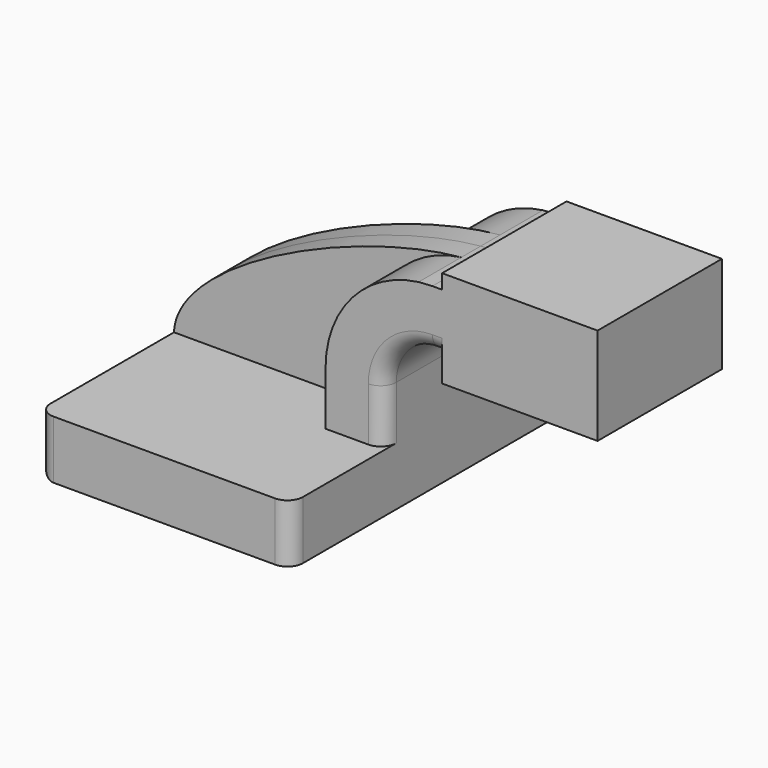
from build123d import *

# Parameters (mm, degrees)
F1_DEPTH = 63.5
F0_W     = 49.9602150655
F0_H     = 19.05
F2_DEPTH = 25.4
F3_DEPTH = 7.9375
F4_R     = 5.08


with BuildPart() as f1:
    # F0 (on Front) → F1 (new body, symmetric)
    with BuildSketch(Plane.XZ):
        Polygon((-41.275, -9.525), (41.275, -9.525), (41.275, 9.525), (22.225, 9.525), (-41.275, 9.525), align=None)
    extrude(amount=F1_DEPTH, both=True)

    # F0 (on Front) → F2 (join, symmetric)
    with BuildSketch(Plane.XZ):
        with BuildLine():
            Line((22.225, 9.525), (41.275, 9.525))
            Line((41.275, 9.525), (41.275, 27.0002))
            ThreePointArc((41.275, 27.0002), (45.9246798487, 38.2255201513), (57.15, 42.8752))
            Line((57.15, 42.8752), (60.325, 42.8752))
            Line((60.325, 42.8752), (60.325, 61.9252))
            Line((60.325, 61.9252), (57.15, 61.9252))
            add(Edge.make_bspline(
                [(52.6185648508, 61.6299808322), (54.1767284716, 61.7748193582), (55.6895521193, 61.8740152427), (57.15, 61.9252)],
                knots=[106.7587971819, 106.7587971819, 106.7587971819, 106.7587971819, 111.5045361635, 111.5045361635, 111.5045361635, 111.5045361635], degree=3))
            ThreePointArc((52.6185648508, 61.6299808322), (30.9010381388, 50.0381605479), (22.225, 27.0002))
            Line((22.225, 27.0002), (22.225, 9.525))
        make_face()
        with Locations((85.3051075328, 52.4002)):
            Rectangle(F0_W, F0_H)
        Polygon((110.2852150655, 42.8752), (60.325, 42.8752), (60.325, 34.925), (111.125, 34.925), (111.125, 66.675), (60.325, 66.675), (60.325, 61.9252), (110.2852150655, 61.9252), align=None)
    extrude(amount=F2_DEPTH, both=True)

    # F0 (on Front) → F3 (join, symmetric)
    with BuildSketch(Plane.XZ):
        with BuildLine():
            add(Edge.make_bspline(
                [(-41.275, 9.525), (-40.4300702784, 32.0156986362), (17.5665582788, 58.3717344605), (52.6185648508, 61.6299808322)],
                knots=[0, 0, 0, 0, 106.7587971819, 106.7587971819, 106.7587971819, 106.7587971819], degree=3))
            Line((-41.275, 9.525), (22.225, 9.525))
            Line((22.225, 9.525), (22.225, 27.0002))
            ThreePointArc((22.225, 27.0002), (30.9010381388, 50.0381605479), (52.6185648508, 61.6299808322))
        make_face()
    extrude(amount=F3_DEPTH, both=True)

    # F4
    f4_edges = [f1.edges().sort_by_distance(p)[0] for p in [
        (41.275, -63.5, 0),
        (41.275, 63.5, 0),
        (58.7375, -25.4, 42.8752),
        (-41.275, -63.5, 0),
        (-41.275, 63.5, 0),
        (-41.275, 0, -9.525),
    ]]
    fillet(f4_edges, radius=F4_R)


solid = f1.part
